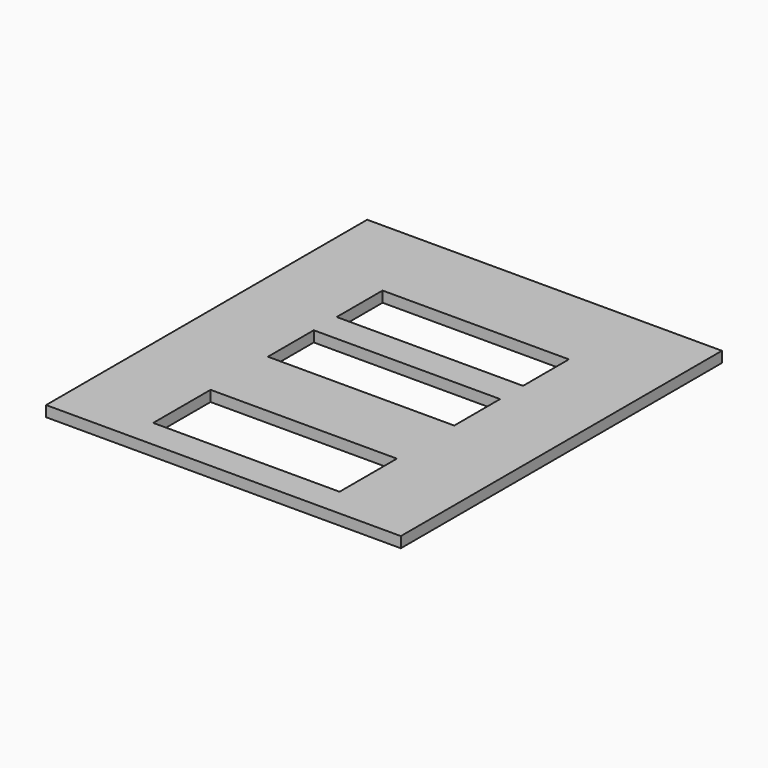
from build123d import *

# Parameters (mm, degrees)
F0_W     = 628.65
F0_H     = 19.05
F1_DEPTH = 711.2
F2_W     = 330.2
F2_H     = 101.6
F2_H_2   = 127
F3_DEPTH = 25.4


with BuildPart() as f1:
    # F0 (on Front) → F1 (new body)
    with BuildSketch(Plane.XZ):
        Rectangle(F0_W, F0_H)
    extrude(amount=F1_DEPTH)

    # F2 (on face) → F3 (cut)
    with BuildSketch(Plane.XY.offset(9.525)):
        with Locations((0, -203.2)):
            Rectangle(F2_W, F2_H)
        with Locations((0, -355.6)):
            Rectangle(F2_W, F2_H)
        with Locations((0, -596.9)):
            Rectangle(F2_W, F2_H_2)
    extrude(amount=-F3_DEPTH, mode=Mode.SUBTRACT)


solid = f1.part
